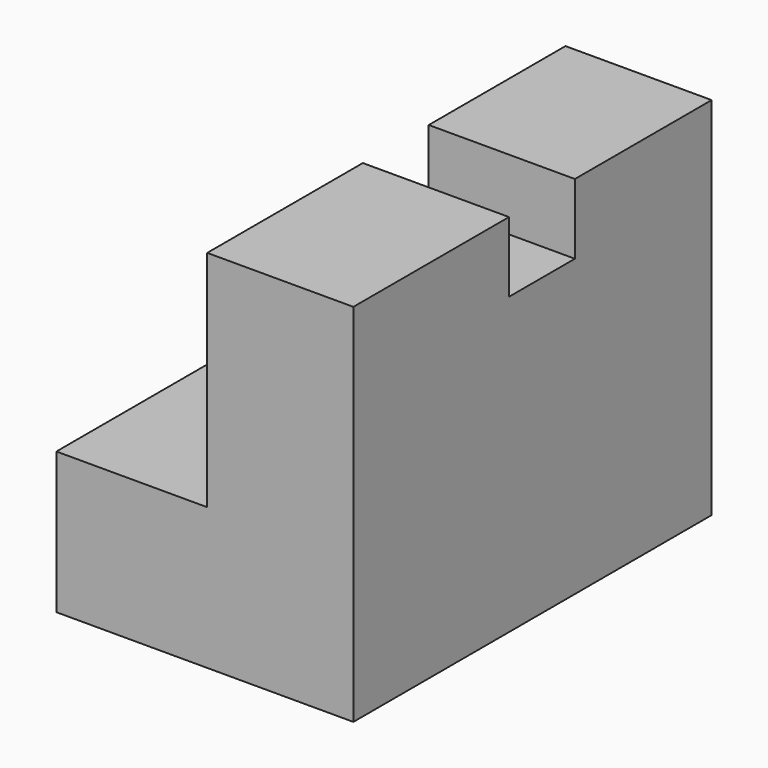
from build123d import *

# Parameters (mm, degrees)
F1_DEPTH = 38.1
F3_DEPTH = 12.7
F4_W     = 7.010136731
F4_H     = 5.9738913878
F5_DEPTH = 12.7


with BuildPart() as f1:
    # F0 (on Front) → F1 (new body)
    with BuildSketch(Plane.XZ):
        Polygon((0, 12.0385394319), (0, 0), (25.2677070918, 0), (25.2677070918, 31.0885394319), (12.8322897299, 31.0885394319), (12.8322897299, 12.0385394319), align=None)
    extrude(amount=F1_DEPTH)

    # F2 (on Right) → F3 (cut)
    with BuildSketch(Plane.YZ):
        Polygon((-12.249593623, 22.1733152866), (-12.249593623, 30.8565702289), (-24.6542412788, 31.1666876078), (-24.6542412788, 22.1733152866), align=None)
    extrude(amount=-F3_DEPTH, mode=Mode.SUBTRACT)

    # F4 (on face) → F5 (cut)
    with BuildSketch(Plane(origin=(12.8322897299, 0, 0), x_dir=(0, -1, 0), z_dir=(-1, 0, 0))):
        with Locations((18.044912722, 28.101593738)):
            Rectangle(F4_W, F4_H)
    extrude(amount=-F5_DEPTH, mode=Mode.SUBTRACT)


solid = f1.part
